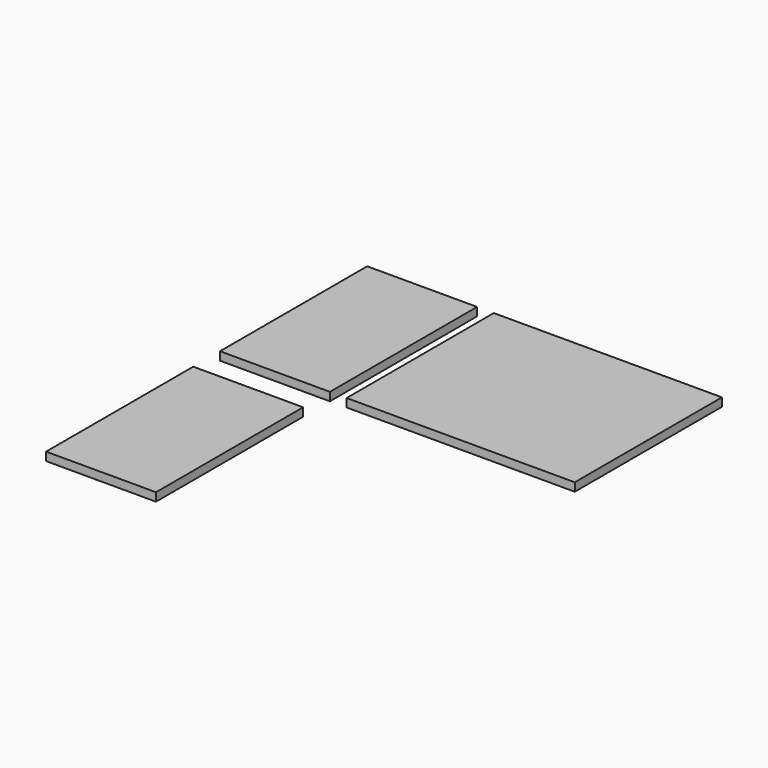
from build123d import *

# Parameters (mm, degrees)
F0_W     = 86.614
F0_H     = 69.85
F0_W_2   = 41.7322
F1_DEPTH = 3.175


with BuildPart() as f1:
    # F0 (on Top) → F1 (new body)
    with BuildSketch(Plane.XY):
        with Locations((43.307, 34.925)):
            Rectangle(F0_W, F0_H)
        with Locations((-27.2161, 34.925)):
            Rectangle(F0_W_2, F0_H)
        with Locations((-27.2161, -47.625)):
            Rectangle(F0_W_2, F0_H)
    extrude(amount=F1_DEPTH)


solid = f1.part
